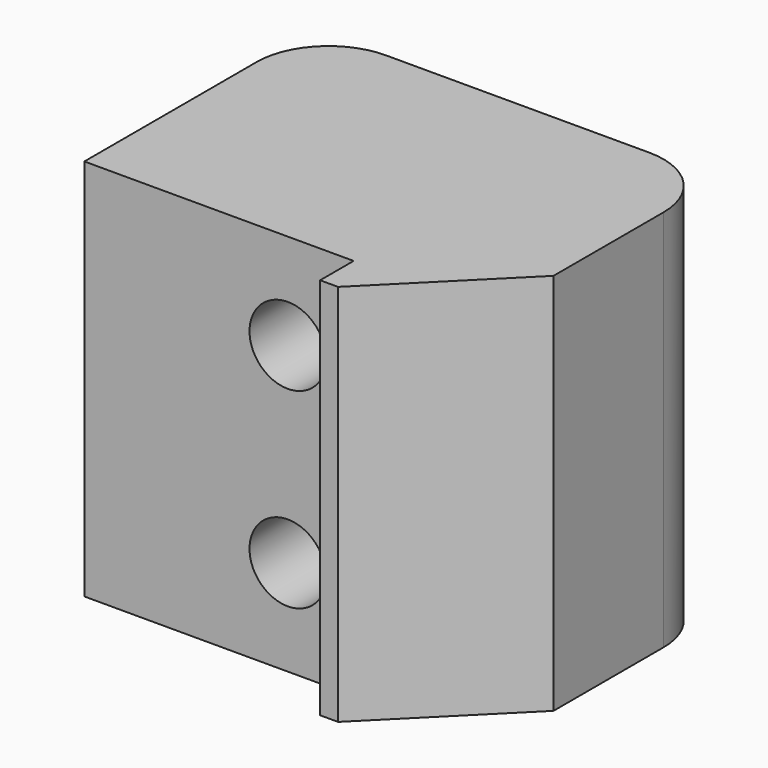
from build123d import *

# Parameters (mm, degrees)
CYLINDER901_R          = 1.6
CYLINDER901_DEPTH      = 20
CYLINDER901_ROLL_ANGLE = 90
CYLINDER902_R          = 1.6
CYLINDER902_DEPTH      = 20
CYLINDER902_ROLL_ANGLE = 90
BOX554_W               = 17
BOX554_H               = 12
BOX554_DEPTH           = 16
BOX555_W               = 5.75
BOX555_H               = 1.75
BOX555_DEPTH           = 16
CHAMFER002_SIZE        = 5
FILLET014_R            = 3


with BuildPart() as cylinder1024:
    # Cylinder901 → Cylinder901 (new body)
    with BuildSketch(Plane.XY):
        Circle(CYLINDER901_R)
    extrude(amount=CYLINDER901_DEPTH)


with BuildPart() as cylinder1024_1:
    # Cylinder901 roll: moved
    add(cylinder1024.part.rotate(Axis((0, 0, 0), (1, 0, 0)), CYLINDER901_ROLL_ANGLE))


with BuildPart() as cylinder1024_2:
    # Cylinder901 placement: moved
    add(cylinder1024_1.part.moved(Location((19.5, 30, 0.5))))


with BuildPart() as fusion059:
    # Cylinder902 → Cylinder902 (new body)
    with BuildSketch(Plane.XY):
        Circle(CYLINDER902_R)
    extrude(amount=CYLINDER902_DEPTH)


with BuildPart() as fusion059_1:
    # Cylinder902 roll: moved
    add(fusion059.part.rotate(Axis((0, 0, 0), (1, 0, 0)), CYLINDER902_ROLL_ANGLE))


with BuildPart() as fusion059_2:
    # Cylinder902 placement: moved
    add(fusion059_1.part.moved(Location((19.5, 30, -7.5))))

    # Fusion059: union Cylinder1024
    add(cylinder1024_2.part)


with BuildPart() as fusion059_3:
    # Fusion059 placement: moved
    add(fusion059_2.part.moved(Location((0, -40, 0))))


with BuildPart() as cube745:
    # Box554 → Box554 (new body)
    with BuildSketch(Plane(origin=(11, -30, -11.5), x_dir=(1, 0, 0), z_dir=(0, 0, 1))):
        with Locations((8.5, 6)):
            Rectangle(BOX554_W, BOX554_H)
    extrude(amount=BOX554_DEPTH)


with BuildPart() as cut014022:
    # Box555 → Box555 (new body)
    with BuildSketch(Plane(origin=(22.25, -18, -11.5), x_dir=(1, 0, 0), z_dir=(0, 0, 1))):
        with Locations((2.875, 0.875)):
            Rectangle(BOX555_W, BOX555_H)
    extrude(amount=BOX555_DEPTH)

    # Fusion058: union Cube745
    add(cube745.part)

    # Chamfer002
    chamfer002_edges = [cut014022.edges().sort_by_distance(p)[0] for p in [
        (28, -16.25, -3.5),
    ]]
    chamfer(chamfer002_edges, length=CHAMFER002_SIZE)

    # Fillet014
    fillet014_edges = [cut014022.edges().sort_by_distance(p)[0] for p in [
        (28, -30, -3.5),
        (11, -30, -3.5),
    ]]
    fillet(fillet014_edges, radius=FILLET014_R)

    # Cut014022: cut Fusion059
    add(fusion059_3.part, mode=Mode.SUBTRACT)


with BuildPart() as diff_box_mount_right:
    # Part__Mirroring001: instance of Cut014022
    add(cut014022.part.mirror(Plane(origin=(0, 0, 0), x_dir=(1, 0, 0), z_dir=(0, 1, 0))))


with BuildPart() as diff_box_mount_right_1:
    # Part__Mirroring001 placement: moved
    add(diff_box_mount_right.part.moved(Location((0, 0, -1))))


solid = diff_box_mount_right_1.part
